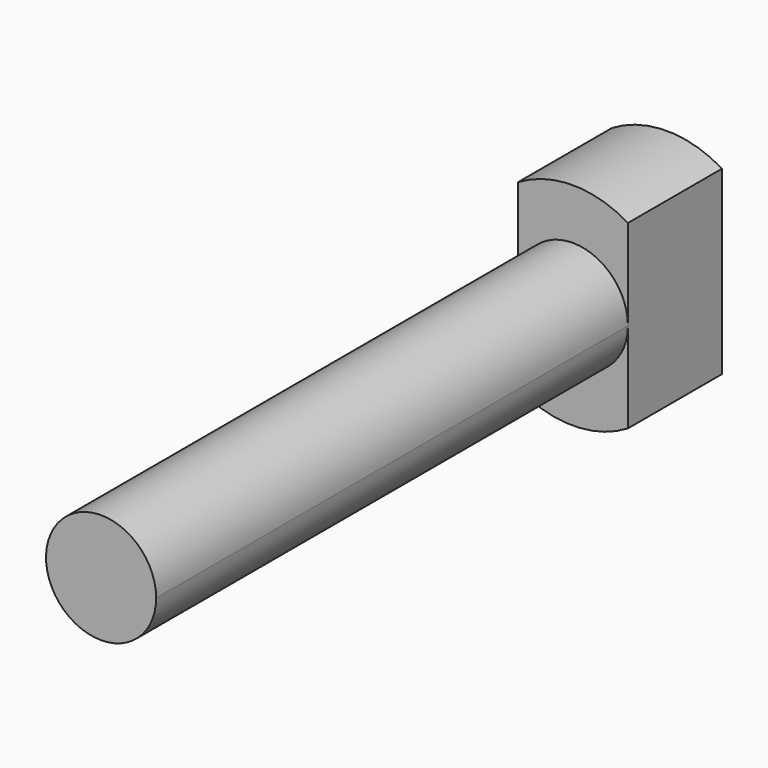
from build123d import *

# Parameters (mm, degrees)
F1_DEPTH = 278.5
F2_DEPTH = 55.5


with BuildPart() as f1:
    # F0 (on Front) → F1 (new body)
    with BuildSketch(Plane.XZ):
        with BuildLine():
            ThreePointArc((-26, -2.27e-08), (-18.3847763028, -18.3847763189), (0, -26))
            ThreePointArc((0, -26), (18.3847763109, -18.3847763109), (26, 0))
            ThreePointArc((26, 0), (18.384776305, 18.3847763167), (-1.64e-08, 26))
            ThreePointArc((-1.64e-08, 26), (-18.3847763247, 18.384776297), (-26, -2.27e-08))
        make_face()
    extrude(amount=F1_DEPTH)

    # F0 (on Front) → F2 (join)
    with BuildSketch(Plane.XZ):
        with BuildLine():
            Line((26, -42.7083130081), (26, -26))
            Line((26, -26), (0, -26))
            Line((0, -26), (-26, -26))
            Line((-26, -26), (-26, -42.7083130081))
            ThreePointArc((-26, -42.7083130081), (0, -50), (26, -42.7083130081))
        make_face()
        with BuildLine():
            Line((0, -26), (26, -26))
            Line((26, -26), (26, 0))
            ThreePointArc((26, 0), (18.3847763109, -18.3847763109), (0, -26))
        make_face()
        with BuildLine():
            Line((-26, -26), (0, -26))
            ThreePointArc((0, -26), (-18.3847763028, -18.3847763189), (-26, -2.27e-08))
            Line((-26, -2.27e-08), (-26, -26))
        make_face()
        with BuildLine():
            ThreePointArc((-26, -2.27e-08), (-18.3847763028, -18.3847763189), (0, -26))
            ThreePointArc((0, -26), (18.3847763109, -18.3847763109), (26, 0))
            ThreePointArc((26, 0), (18.384776305, 18.3847763167), (-1.64e-08, 26))
            ThreePointArc((-1.64e-08, 26), (-18.3847763247, 18.384776297), (-26, -2.27e-08))
        make_face()
        with BuildLine():
            ThreePointArc((-1.64e-08, 26), (18.384776305, 18.3847763167), (26, 0))
            Line((26, 0), (26, 26))
            Line((26, 26), (-1.64e-08, 26))
        make_face()
        with BuildLine():
            Line((-26, 26), (-26, -2.27e-08))
            ThreePointArc((-26, -2.27e-08), (-18.3847763247, 18.384776297), (-1.64e-08, 26))
            Line((-1.64e-08, 26), (-26, 26))
        make_face()
        with BuildLine():
            Line((-1.64e-08, 26), (26, 26))
            Line((26, 26), (26, 42.7083130081))
            ThreePointArc((26, 42.7083130081), (0, 50), (-26, 42.7083130081))
            Line((-26, 42.7083130081), (-26, 26))
            Line((-26, 26), (-1.64e-08, 26))
        make_face()
    extrude(amount=-F2_DEPTH)


solid = f1.part
